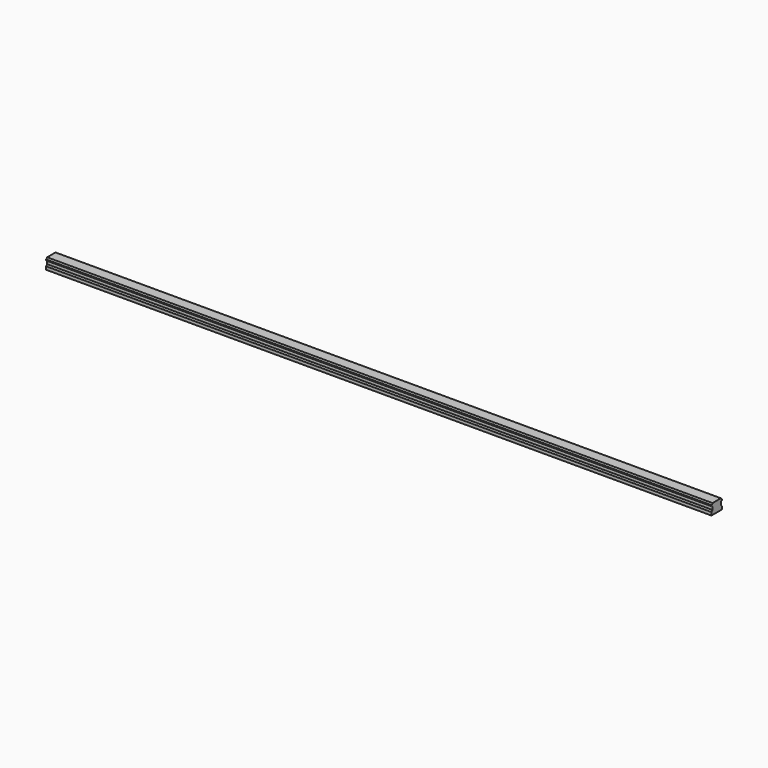
from build123d import *

# Parameters (mm, degrees)
F1_DEPTH = 1016


with BuildPart() as f1:
    # F0 (on Right) → F1 (new body)
    with BuildSketch(Plane.YZ):
        Polygon((-27.154803, 22.878646), (-7.154803, 22.878646), (-7.154803, 27.584923), (-9.154803, 29.584923), (-9.154803, 33.389069), (-25.154803, 33.389069), (-25.154803, 29.584923), (-27.154803, 27.584923), align=None)
        with BuildLine():
            ThreePointArc((-9.154803, 33.389069), (-8.569017, 34.803283), (-7.154803, 35.389069))
            Line((-7.154803, 35.389069), (-7.154803, 36.878646))
            ThreePointArc((-7.154803, 36.878646), (-8.569017, 37.464433), (-9.154803, 38.878646))
            Line((-9.154803, 38.878646), (-25.154803, 38.878646))
            ThreePointArc((-25.154803, 38.878646), (-25.74059, 37.464433), (-27.154803, 36.878646))
            Line((-27.154803, 36.878646), (-27.154803, 35.389069))
            ThreePointArc((-27.154803, 35.389069), (-25.74059, 34.803283), (-25.154803, 33.389069))
            Line((-25.154803, 33.389069), (-9.154803, 33.389069))
        make_face()
    extrude(amount=F1_DEPTH)


solid = f1.part
